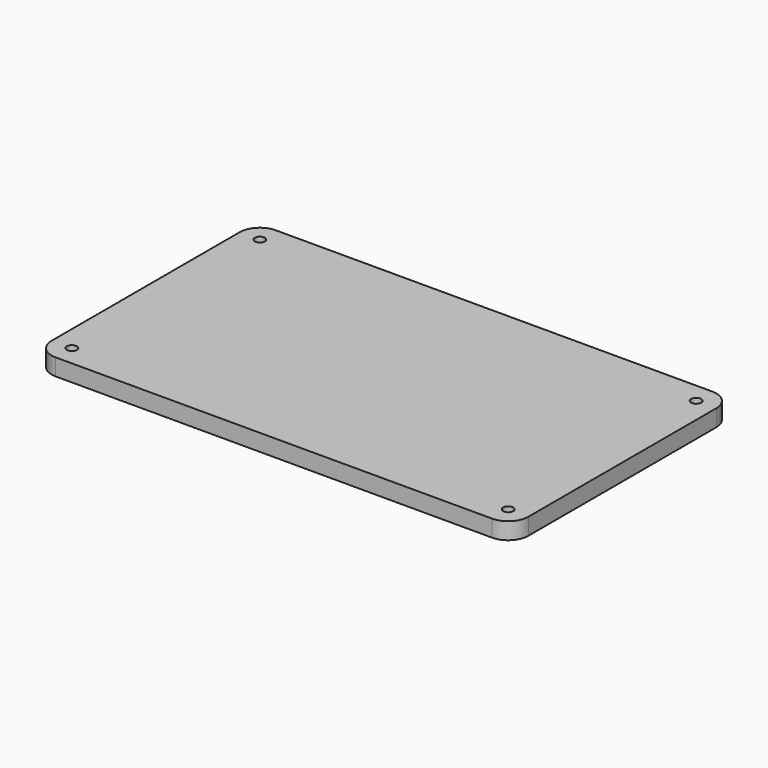
from build123d import *

# Parameters (mm, degrees)
F0_W     = 142
F0_H     = 82
F0_R     = 1.5
F1_DEPTH = 5
F2_R     = 6


with BuildPart() as f1:
    # F0 (on Top) → F1 (new body)
    with BuildSketch(Plane.XY):
        Rectangle(F0_W, F0_H)
        with Locations((-65, -35)):
            Circle(F0_R, mode=Mode.SUBTRACT)
        with Locations((65, -35)):
            Circle(F0_R, mode=Mode.SUBTRACT)
        with Locations((-65, 35)):
            Circle(F0_R, mode=Mode.SUBTRACT)
        with Locations((65, 35)):
            Circle(F0_R, mode=Mode.SUBTRACT)
    extrude(amount=F1_DEPTH)

    # F2
    f2_edges = [f1.edges().sort_by_distance(p)[0] for p in [
        (-71, -41, 2.5),
        (-71, 41, 2.5),
        (71, 41, 2.5),
        (71, -41, 2.5),
    ]]
    fillet(f2_edges, radius=F2_R)


solid = f1.part
